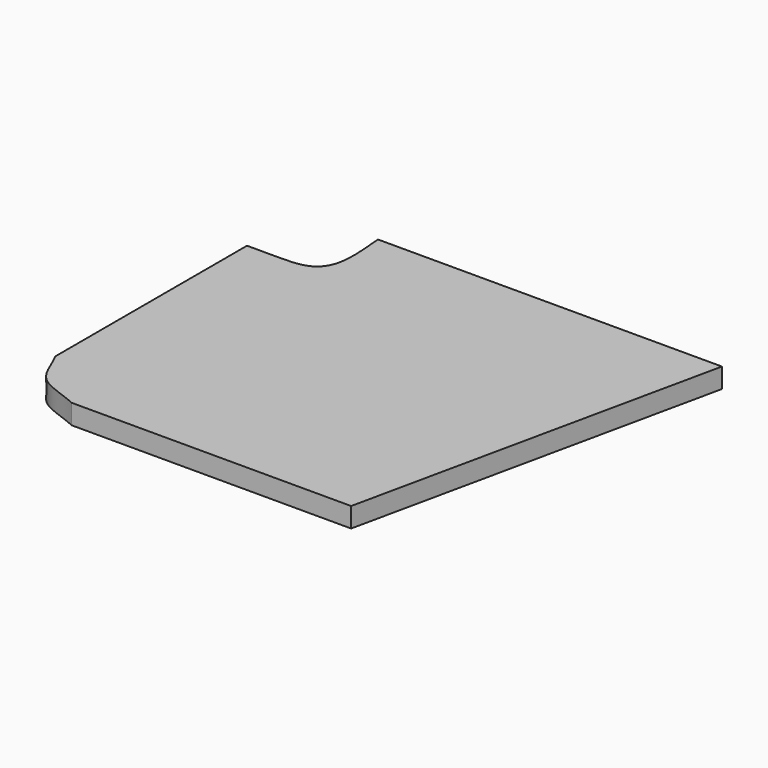
from build123d import *

# Parameters (mm, degrees)
F0_W     = 400
F0_H     = 350
F1_DEPTH = 19
F3_DEPTH = 19.001
F5_DEPTH = 19.0010001
F7_DEPTH = 19.0010001


with BuildPart() as f1:
    # F0 (on Top) → F1 (new body)
    with BuildSketch(Plane.XY):
        Rectangle(F0_W, F0_H)
    extrude(amount=F1_DEPTH)

    # F2 (on face) → F3 (cut, through all)
    with BuildSketch(Plane.XY.offset(19)):
        with BuildLine():
            Line((-200, 175), (-200, 105.8987081051))
            add(Edge.make_bspline(
                [(-200, 105.8987081051), (-173.8925740945, 106.431558986), (-141.1865267667, 102.3876044201), (-124.6543102784, 129.8187881504), (-128.7484537478, 161.3148090825), (-129.7521442175, 175)],
                knots=[0, 0, 0, 0, 0.3945413032, 0.6518304565, 1, 1, 1, 1], degree=3))
            Line((-129.7521442175, 175), (-200, 175))
        make_face()
    extrude(amount=-F3_DEPTH, mode=Mode.SUBTRACT)

    # F4 (on face) → F5 (cut, through all)
    with BuildSketch(Plane.XY.offset(19)):
        with BuildLine():
            add(Edge.make_bspline(
                [(200, 175), (200, 58.3333333333), (200, -58.3333333333), (200, -175)],
                knots=[0, 0, 0, 0, 350, 350, 350, 350], degree=3))
            add(Edge.make_bspline(
                [(200, 175), (174.8365417123, 58.3333333333), (149.6730834246, -58.3333333333), (124.5096251369, -175)],
                knots=[0, 0, 0, 0, 358.0485954406, 358.0485954406, 358.0485954406, 358.0485954406], degree=3))
            add(Edge.make_bspline(
                [(200, -175), (174.8365417123, -175), (149.6730834246, -175), (124.5096251369, -175)],
                knots=[0, 0, 0, 0, 75.4903748631, 75.4903748631, 75.4903748631, 75.4903748631], degree=3))
        make_face()
    extrude(amount=-F5_DEPTH, mode=Mode.SUBTRACT)

    # F6 (on face) → F7 (cut, through all)
    with BuildSketch(Plane.XY.offset(19)):
        with BuildLine():
            add(Edge.make_bspline(
                [(-200, -123.7232536077), (-194.1574839929, -134.3379844624), (-187.7674284308, -163.1785715705), (-156.5418592203, -168.6152111018), (-143.3826684952, -175)],
                knots=[0, 0, 0, 0, 0.4833695599, 1, 1, 1, 1], degree=3))
            Line((-200, -123.7232536077), (-200, -175))
            Line((-200, -175), (-143.3826684952, -175))
        make_face()
    extrude(amount=-F7_DEPTH, mode=Mode.SUBTRACT)


solid = f1.part
